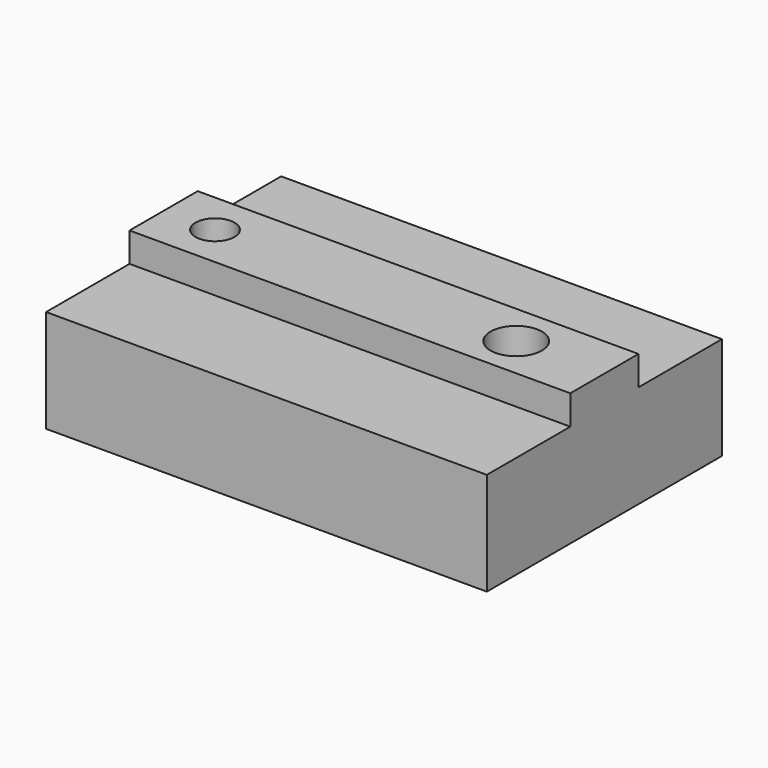
from build123d import *

# Parameters (mm, degrees)
F0_W     = 30
F0_H     = 2.9
F0_H_2   = 7.1
F1_DEPTH = 7
F2_DEPTH = 9
F3_R     = 1.75
F4_DEPTH = 10
F3_R_2   = 4
F5_DEPTH = 3
F7_START = -8
F6_W     = 6.65
F6_H     = 2.42
F7_DEPTH = 7
F8_R     = 1.325
F9_DEPTH = 25


with BuildPart() as f1:
    # F0 (on Top) → F1 (new body)
    with BuildSketch(Plane.XY):
        with Locations((0, -1.45)):
            Rectangle(F0_W, F0_H)
        with Locations((0, -6.45)):
            Rectangle(F0_W, F0_H_2)
        with Locations((0, 6.45)):
            Rectangle(F0_W, F0_H_2)
        with Locations((0, 1.45)):
            Rectangle(F0_W, F0_H)
    extrude(amount=F1_DEPTH)

    # F0 (on Top) → F2 (join)
    with BuildSketch(Plane.XY):
        with Locations((0, -1.45)):
            Rectangle(F0_W, F0_H)
        with Locations((0, 1.45)):
            Rectangle(F0_W, F0_H)
    extrude(amount=F2_DEPTH)

    # F3 (on Top) → F4 (cut)
    with BuildSketch(Plane.XY):
        with Locations((9, 0)):
            Circle(F3_R)
    extrude(amount=F4_DEPTH, mode=Mode.SUBTRACT)

    # F3 (on Top) → F5 (cut)
    with BuildSketch(Plane.XY):
        with Locations((9, 0)):
            Circle(F3_R_2)
        with Locations((9, 0)):
            Circle(F3_R, mode=Mode.SUBTRACT)
    extrude(amount=F5_DEPTH, mode=Mode.SUBTRACT)

    # F6 (on Right) → F7 (cut)
    with BuildSketch(Plane.YZ.offset(F7_START)):
        with Locations((0, 3.21)):
            Rectangle(F6_W, F6_H)
    extrude(amount=-F7_DEPTH, mode=Mode.SUBTRACT)

    # F8 (on Top) → F9 (cut)
    with BuildSketch(Plane.XY):
        with Locations((-11.5, 0)):
            Circle(F8_R)
    extrude(amount=F9_DEPTH, mode=Mode.SUBTRACT)


solid = f1.part
